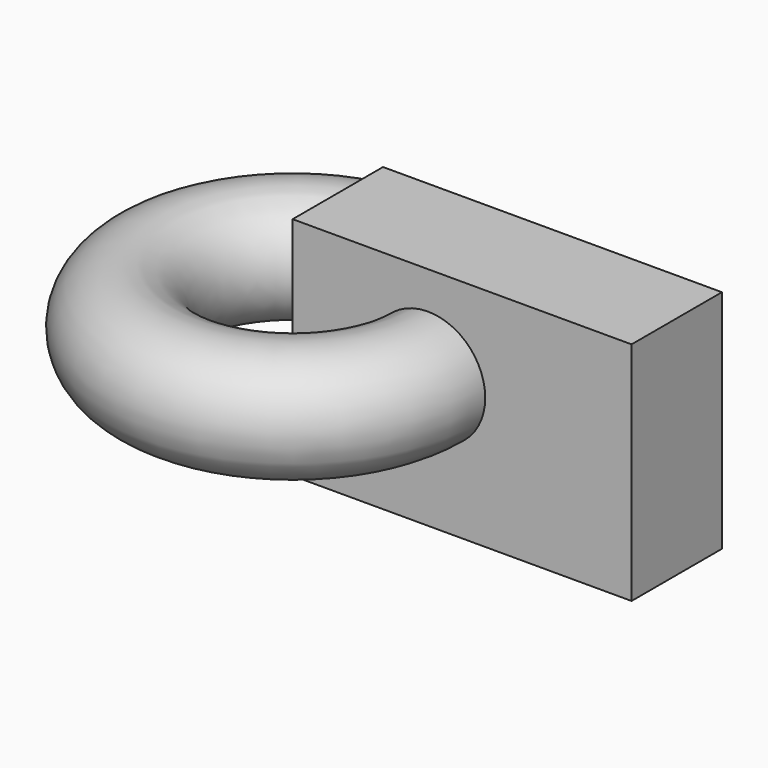
from build123d import *

# Parameters (mm, degrees)
F0_W     = 152.4
F0_H     = 101.6
F1_DEPTH = 25.4
F2_R     = 25.751034


with BuildPart() as f1:
    # F0 (on Front) → F1 (new body, symmetric)
    with BuildSketch(Plane.XZ):
        with Locations((45.772014, 50.8)):
            Rectangle(F0_W, F0_H)
    extrude(amount=F1_DEPTH, both=True)

    # F2 (on face) → F3 (revolve)
    with BuildSketch(Plane.XZ.offset(25.4)):
        with Locations((30.416071, 59.06859)):
            Circle(F2_R)
    revolve(axis=Axis((-30.427986, -25.4, 50.8), (0, 0, -1)))


solid = f1.part
